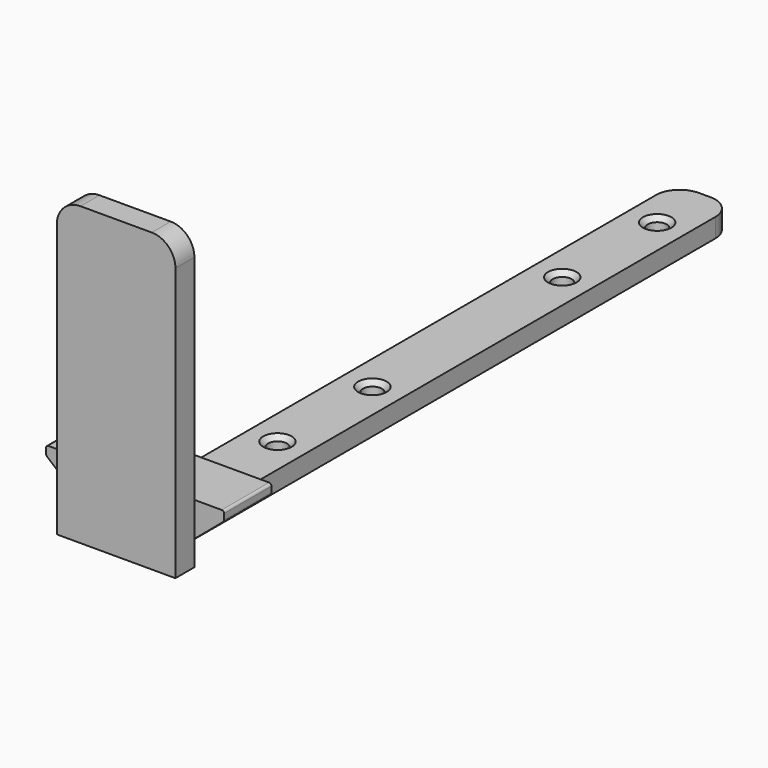
from build123d import *

# Parameters (mm, degrees)
F0_W     = 6.35
F0_H     = 76.2
F0_R     = 1.016
F1_DEPTH = 2.032
F3_DEPTH = 6.35
F4_R     = 0.254
F5_R     = 0.254
F6_SIZE  = 0.508
F7_SIZE  = 0.508
F8_W     = 12.7
F8_H     = 25.4
F9_DEPTH = 2.54
F10_R    = 2.54
F11_R    = 2.54


with BuildPart() as f1:
    # F0 (on Top) → F1 (new body)
    with BuildSketch(Plane.XY):
        with Locations((0, 28.9922469051)):
            Rectangle(F0_W, F0_H)
        with Locations((0, 9.9422469051)):
            Circle(F0_R, mode=Mode.SUBTRACT)
        with Locations((0, 22.6422469051)):
            Circle(F0_R, mode=Mode.SUBTRACT)
        with Locations((0, 48.0422469051)):
            Circle(F0_R, mode=Mode.SUBTRACT)
        with Locations((0, 60.7422469051)):
            Circle(F0_R, mode=Mode.SUBTRACT)
    extrude(amount=F1_DEPTH)

    # F2 (on face) → F3 (join)
    with BuildSketch(Plane.XZ.offset(9.1077530949)):
        Polygon((-9.525, 5.3878031066), (-3.175, 0), (3.175, 0), (9.525, 5.3573960435), (9.525, 6.35), (3.175, 6.35), (-3.175, 6.35), (-9.525, 6.35), align=None)
    extrude(amount=-F3_DEPTH)

    # F4
    f4_edges = [f1.edges().sort_by_distance(p)[0] for p in [
        (9.525, -5.932753, 6.35),
    ]]
    fillet(f4_edges, radius=F4_R)

    # F5
    f5_edges = [f1.edges().sort_by_distance(p)[0] for p in [
        (9.525, -5.932753, 5.357396),
        (-9.525, -5.932753, 6.35),
        (-9.525, -5.932753, 5.387803),
    ]]
    fillet(f5_edges, radius=F5_R)

    # F6
    f6_edges = [f1.edges().sort_by_distance(p)[0] for p in [
        (-1.016, 60.742247, 2.032),
    ]]
    chamfer(f6_edges, length=F6_SIZE)

    # F7
    f7_edges = [f1.edges().sort_by_distance(p)[0] for p in [
        (-1.016, 48.042247, 2.032),
        (-1.016, 22.642247, 2.032),
        (-1.016, 9.942247, 2.032),
    ]]
    chamfer(f7_edges, length=F7_SIZE)

    # F8 (on face) → F9 (join)
    with BuildSketch(Plane.XZ.offset(9.1077530949)):
        with Locations((0, 19.05)):
            Rectangle(F8_W, F8_H)
        Polygon((6.35, 6.35), (-6.35, 6.35), (-6.35, 2.6939015533), (-3.175, 0), (3.175, 0), (6.35, 2.6786980217), align=None)
        Polygon((6.35, 0), (6.35, 2.6786980217), (3.175, 0), align=None)
        Polygon((-3.175, 0), (-6.35, 2.6939015533), (-6.35, 0), align=None)
    extrude(amount=F9_DEPTH)

    # F10
    f10_edges = [f1.edges().sort_by_distance(p)[0] for p in [
        (6.35, -10.377753, 31.75),
        (-6.35, -10.377753, 31.75),
    ]]
    fillet(f10_edges, radius=F10_R)

    # F11
    f11_edges = [f1.edges().sort_by_distance(p)[0] for p in [
        (-3.175, 67.092247, 1.016),
        (3.175, 67.092247, 1.016),
    ]]
    fillet(f11_edges, radius=F11_R)


solid = f1.part
